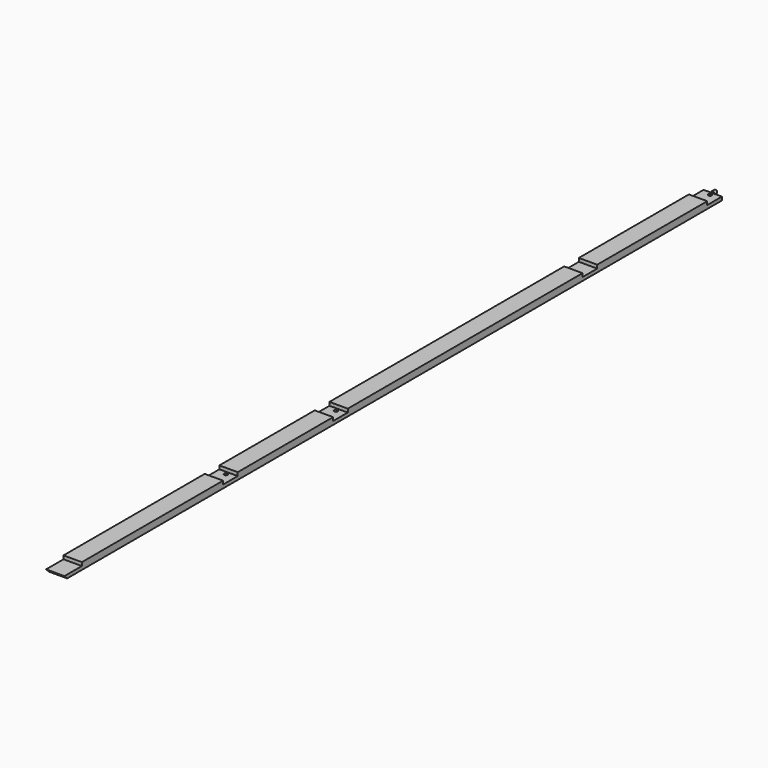
from build123d import *

# Parameters (mm, degrees)
F1_DEPTH = 25.4
F3_R     = 4.7625
F4_DEPTH = 9.525
F5_R     = 4.7625
F6_DEPTH = 25.4


with BuildPart() as f1:
    # F0 (on Right) → F1 (new body, symmetric)
    with BuildSketch(Plane.YZ):
        Polygon((-33.290768, -9.525), (2133.6, -9.525), (2133.6, 0), (2082.8, 0), (2082.8, 9.525), (1701.8, 9.525), (1701.8, 0), (1651, 0), (1651, 9.525), (838.2, 9.525), (838.2, 0), (787.4, 0), (787.4, 9.525), (457.2, 9.525), (457.2, 0), (406.4, 0), (406.4, 9.525), (0, 9.525), (-82.55, 9.525), (-82.55, 0), (-142.875, 0), (-133.35, -9.525), align=None)
    extrude(amount=F1_DEPTH, both=True)

    # F3 (on offset) → F4 (join)
    with BuildSketch(Plane.XZ.offset(-2133.6)):
        Circle(F3_R)
    extrude(amount=-F4_DEPTH)

    # F5 (on Top) → F6 (cut)
    with BuildSketch(Plane.XY):
        with Locations((0, 447.675)):
            Circle(F5_R)
        with Locations((0, 828.675)):
            Circle(F5_R)
        with Locations((0, 1660.525)):
            Circle(F5_R)
        with Locations((0, 2124.075)):
            Circle(F5_R)
    extrude(amount=-F6_DEPTH, mode=Mode.SUBTRACT)


solid = f1.part
